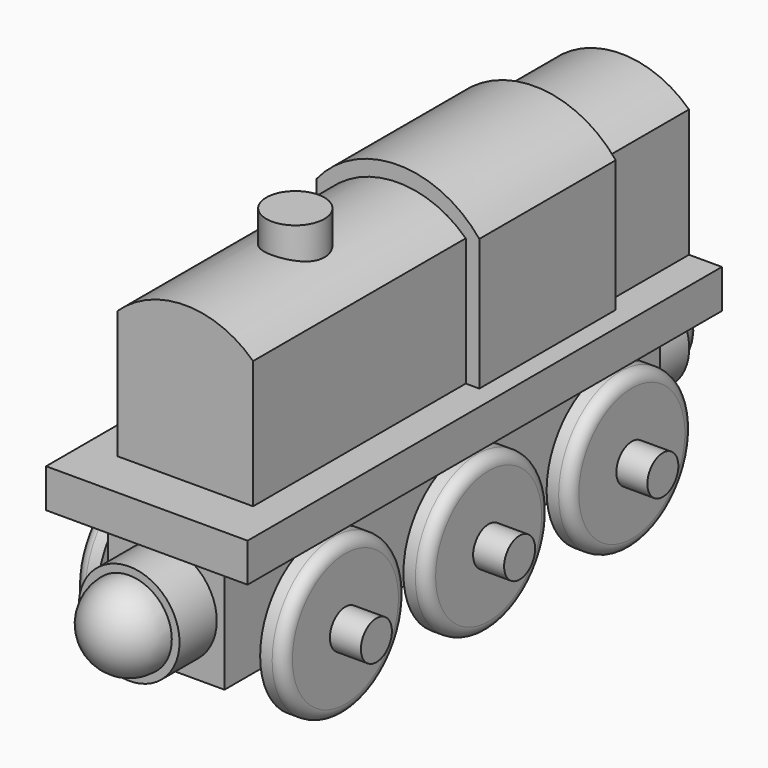
from build123d import *

# Parameters (mm, degrees)
F0_W      = 26
F0_H      = 5
F1_DEPTH  = 38.25
F2_W      = 15
F2_H      = 70.2
F3_DEPTH  = 15
F4_R      = 6.5
F5_DEPTH  = 6
F6_R      = 6.5
F7_DEPTH  = 6
F12_W     = 21
F12_H     = 22
F13_DEPTH = 17
F15_DEPTH = 22
F16_W     = 17.5
F16_H     = 16.5
F17_DEPTH = 14
F18_W     = 17.5
F18_H     = 16.5
F19_DEPTH = 34.3
F20_R     = 3.75
F21_DEPTH = 23.8
F22_R     = 4
F23_DEPTH = 3
F24_R     = 10
F25_DEPTH = 3
F26_R     = 2.5
F27_DEPTH = 4
F29_R     = 1.4485281374
F30_R     = 1.45


with BuildPart() as f1:
    # F0 (on Front) → F1 (new body, symmetric)
    with BuildSketch(Plane.XZ):
        Rectangle(F0_W, F0_H)
    extrude(amount=F1_DEPTH, both=True)

    # F2 (on face) → F3 (join)
    with BuildSketch(Plane(origin=(0, 0, -2.5), x_dir=(1, 0, 0), z_dir=(0, 0, -1))):
        Rectangle(F2_W, F2_H)
    extrude(amount=F3_DEPTH)

    # F4 (on face) → F5 (join)
    with BuildSketch(Plane.XZ.offset(35.1)):
        with Locations((0, -10)):
            Circle(F4_R)
    extrude(amount=F5_DEPTH)

    # F6 (on face) → F7 (join)
    with BuildSketch(Plane(origin=(0, 35.1, 0), x_dir=(-1, 0, 0), z_dir=(0, 1, 0))):
        with Locations((0, -10)):
            Circle(F6_R)
    extrude(amount=F7_DEPTH)

    # F8 (on face) → F9 (revolve)
    with BuildSketch(Plane(origin=(0, 41.1, 0), x_dir=(-1, 0, 0), z_dir=(0, 1, 0))):
        with BuildLine():
            Line((0, -15.5), (0, -4.5))
            ThreePointArc((0, -4.5), (-5.5, -10), (0, -15.5))
        make_face()
    revolve(axis=Axis((0, 41.1, -10), (0, 0, -1)))

    # F10 (on face) → F11 (revolve)
    with BuildSketch(Plane.XZ.offset(41.1)):
        with BuildLine():
            Line((0, -4.5), (0, -15.5))
            ThreePointArc((0, -15.5), (5.5, -10), (0, -4.5))
        make_face()
    revolve(axis=Axis((0, -41.1, -10), (0, 0, -1)))

    # F12 (on face) → F13 (join)
    with BuildSketch(Plane.XY.offset(2.5)):
        with Locations((0, 13.25)):
            Rectangle(F12_W, F12_H)
    extrude(amount=F13_DEPTH)

    # F14 (on face) → F15 (join)
    with BuildSketch(Plane(origin=(0, 24.25, 0), x_dir=(-1, 0, 0), z_dir=(0, 1, 0))):
        with BuildLine():
            Line((-10.5, 19.5), (10.5, 19.5))
            ThreePointArc((10.5, 19.5), (0, 24.5), (-10.5, 19.5))
        make_face()
    extrude(amount=-F15_DEPTH)

    # F16 (on face) → F17 (join)
    with BuildSketch(Plane(origin=(0, 24.25, 0), x_dir=(-1, 0, 0), z_dir=(0, 1, 0))):
        with Locations((0, 10.75)):
            Rectangle(F16_W, F16_H)
        with BuildLine():
            ThreePointArc((8.75, 19), (0, 22.5), (-8.75, 19))
            Line((-8.75, 19), (8.75, 19))
        make_face()
    extrude(amount=F17_DEPTH)

    # F18 (on face) → F19 (join)
    with BuildSketch(Plane.XZ.offset(-2.25)):
        with Locations((0, 10.75)):
            Rectangle(F18_W, F18_H)
        with BuildLine():
            ThreePointArc((8.75, 19), (0, 22.5), (-8.75, 19))
            Line((-8.75, 19), (8.75, 19))
        make_face()
    extrude(amount=F19_DEPTH)

    # F20 (on face) → F21 (join)
    with BuildSketch(Plane.XY.offset(2.5)):
        with Locations((0, -14.3)):
            Circle(F20_R)
    extrude(amount=F21_DEPTH)

    # F22 (on face) → F23 (join)
    with BuildSketch(Plane(origin=(-7.5, 0, 0), x_dir=(0, -1, 0), z_dir=(-1, 0, 0))):
        with Locations((-23.1, -13.5)):
            Circle(F22_R)
        with Locations((-0.1, -13.5)):
            Circle(F22_R)
        with Locations((22.9, -13.5)):
            Circle(F22_R)
    extrude(amount=F23_DEPTH)

    # F24 (on face) → F25 (join)
    with BuildSketch(Plane(origin=(-10.5, 0, 0), x_dir=(0, -1, 0), z_dir=(-1, 0, 0))):
        with Locations((-23.1, -13.5)):
            Circle(F24_R)
        with Locations((0, -13.5)):
            Circle(F24_R)
        with Locations((23.1, -13.5)):
            Circle(F24_R)
    extrude(amount=F25_DEPTH)

    # F26 (on face) → F27 (join)
    with BuildSketch(Plane(origin=(-13.5, 0, 0), x_dir=(0, -1, 0), z_dir=(-1, 0, 0))):
        with Locations((-23.1, -13.5)):
            Circle(F26_R)
        with Locations((0, -13.5)):
            Circle(F26_R)
        with Locations((23.1, -13.5)):
            Circle(F26_R)
    extrude(amount=F27_DEPTH)

    # F28: F1 across plane


with BuildPart() as f1_1:
    add(f1.part)
    add(f1.part.mirror(Plane.YZ))

    # F29
    f29_edges = [f1_1.edges().sort_by_distance(p)[0] for p in [
        (-13.5, 33.1, -13.5),
    ]]
    fillet(f29_edges, radius=F29_R)

    # F30
    f30_edges = [f1_1.edges().sort_by_distance(p)[0] for p in [
        (-13.5, -13.1, -13.5),
        (-13.5, 10, -13.5),
        (13.5, 33.1, -13.5),
        (13.5, 10, -13.5),
        (13.5, -13.1, -13.5),
    ]]
    fillet(f30_edges, radius=F30_R)


solid = f1_1.part
